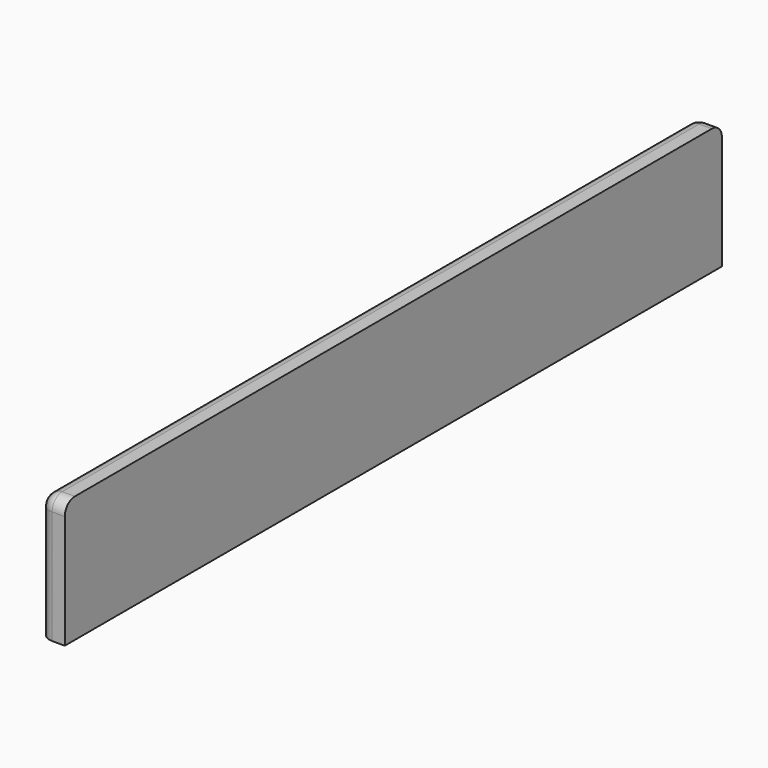
from build123d import *

# Parameters (mm, degrees)
SKETCH009_W  = 65
SKETCH009_H  = 10
PAD008_DEPTH = 2
FILLET013_R  = 1
FILLET020_R  = 1
FILLET027_R  = 1


with BuildPart() as part:
    # Sketch009 → Pad008 (new body)
    with BuildSketch(Plane.YZ):
        with Locations((0, 5)):
            Rectangle(SKETCH009_W, SKETCH009_H)
    extrude(amount=PAD008_DEPTH)

    # Fillet013
    fillet013_edges = [part.edges().sort_by_distance(p)[0] for p in [
        (0, 32.5, 5),
    ]]
    fillet(fillet013_edges, radius=FILLET013_R)

    # Fillet020
    fillet020_edges = [part.edges().sort_by_distance(p)[0] for p in [
        (0, -32.5, 5),
    ]]
    fillet(fillet020_edges, radius=FILLET020_R)

    # Fillet027
    fillet027_edges = [part.edges().sort_by_distance(p)[0] for p in [
        (0, 0, 10),
    ]]
    fillet(fillet027_edges, radius=FILLET027_R)


with BuildPart() as part_1:
    # Body008 placement: moved
    add(part.part.moved(Location((-52.5, 0, 36))))


solid = part_1.part
